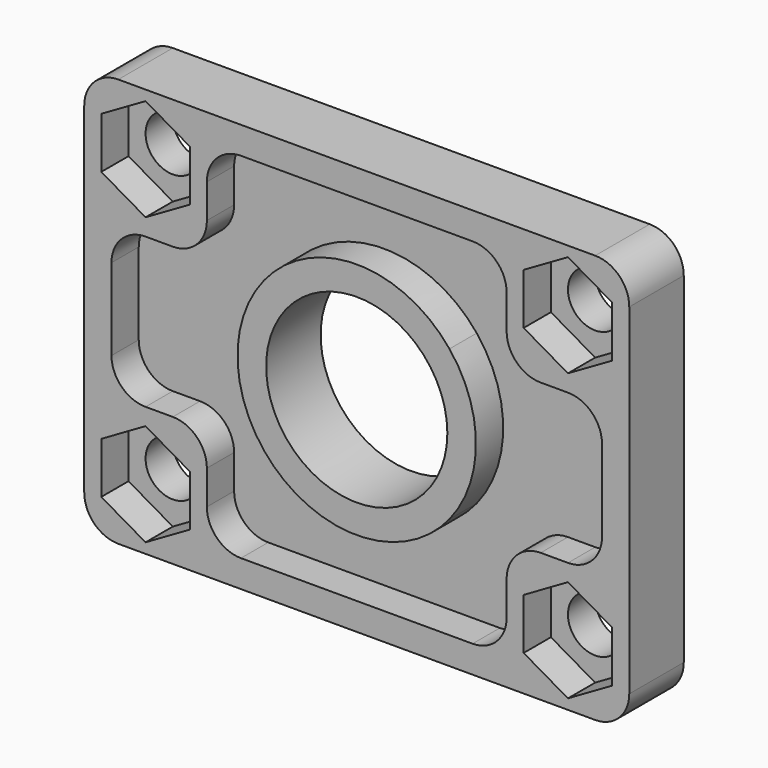
from build123d import *

# Parameters (mm, degrees)
F0_W     = 80
F0_H     = 60
F1_DEPTH = 10
F2_R     = 13.3
F3_DEPTH = 10.001
F4_R     = 4
F5_DEPTH = 10.001
F6_R     = 5
F7_W     = 14
F7_H     = 22
F8_DEPTH = 5
F9_R     = 5


with BuildPart() as f1:
    # F0 (on Front) → F1 (new body)
    with BuildSketch(Plane.XZ):
        with Locations((0, 10)):
            Rectangle(F0_W, F0_H)
    extrude(amount=F1_DEPTH)

    # F2 (on face) → F3 (cut, through all)
    with BuildSketch(Plane.XZ.offset(10)):
        with Locations((0, 10)):
            Circle(F2_R)
    extrude(amount=-F3_DEPTH, mode=Mode.SUBTRACT)

    # F4 (on face) → F5 (cut, through all)
    with BuildSketch(Plane.XZ.offset(10)):
        with Locations((-31, 31)):
            Circle(F4_R)
        with Locations((31, 31)):
            Circle(F4_R)
        with Locations((-31, -11)):
            Circle(F4_R)
        with Locations((31, -11)):
            Circle(F4_R)
    extrude(amount=-F5_DEPTH, mode=Mode.SUBTRACT)

    # F6
    f6_edges = [f1.edges().sort_by_distance(p)[0] for p in [
        (40, -5, 40),
        (40, -5, -20),
        (-40, -5, -20),
        (-40, -5, 40),
    ]]
    fillet(f6_edges, radius=F6_R)

    # F7 (on face) → F8 (cut)
    with BuildSketch(Plane.XZ.offset(10)):
        Polygon((-24.5, 34.7527767497), (-31, 38.5055534995), (-37.5, 34.7527767497), (-37.5, 27.2472232503), (-31, 23.4944465005), (-24.5, 27.2472232503), align=None)
        Polygon((24.5, 34.7527767497), (24.5, 27.2472232503), (31, 23.4944465005), (37.5, 27.2472232503), (37.5, 34.7527767497), (31, 38.5055534995), align=None)
        Polygon((24.5, -7.2472232503), (24.5, -14.7527767497), (31, -18.5055534995), (37.5, -14.7527767497), (37.5, -7.2472232503), (31, -3.4944465005), align=None)
        Polygon((-24.5, -7.2472232503), (-31, -3.4944465005), (-37.5, -7.2472232503), (-37.5, -14.7527767497), (-31, -18.5055534995), (-24.5, -14.7527767497), align=None)
        with BuildLine():
            ThreePointArc((13.6106575888, 21), (16.499037969, 15.8336734651), (17.5, 10))
            ThreePointArc((17.5, 10), (16.499037969, 4.1663265349), (13.6106575888, -1))
            Line((13.6106575888, -1), (22, -1))
            Line((22, -1), (22, 21))
            Line((22, 21), (13.6106575888, 21))
        make_face()
        with BuildLine():
            ThreePointArc((-13.6106575888, 21), (0, 27.5), (13.6106575888, 21))
            Line((13.6106575888, 21), (22, 21))
            Line((22, 21), (22, 36))
            Line((22, 36), (-22, 36))
            Line((-22, 36), (-22, 21))
            Line((-22, 21), (-13.6106575888, 21))
        make_face()
        with BuildLine():
            Line((22, -1), (13.6106575888, -1))
            ThreePointArc((13.6106575888, -1), (0, -7.5), (-13.6106575888, -1))
            Line((-13.6106575888, -1), (-22, -1))
            Line((-22, -1), (-22, -16))
            Line((-22, -16), (22, -16))
            Line((22, -16), (22, -1))
        make_face()
        with BuildLine():
            ThreePointArc((-13.6106575888, -1), (-17.5, 10), (-13.6106575888, 21))
            Line((-13.6106575888, 21), (-22, 21))
            Line((-22, 21), (-22, -1))
            Line((-22, -1), (-13.6106575888, -1))
        make_face()
        with Locations((29, 10)):
            Rectangle(F7_W, F7_H)
        with Locations((-29, 10)):
            Rectangle(F7_W, F7_H)
    extrude(amount=-F8_DEPTH, mode=Mode.SUBTRACT)

    # F9
    f9_edges = [f1.edges().sort_by_distance(p)[0] for p in [
        (-22, -7.5, 21),
        (-36, -7.5, 21),
        (-22, -7.5, 36),
        (22, -7.5, 36),
        (22, -7.5, 21),
        (36, -7.5, 21),
        (-36, -7.5, -1),
        (-22, -7.5, -1),
        (-22, -7.5, -16),
        (36, -7.5, -1),
        (22, -7.5, -1),
        (22, -7.5, -16),
    ]]
    fillet(f9_edges, radius=F9_R)


solid = f1.part
